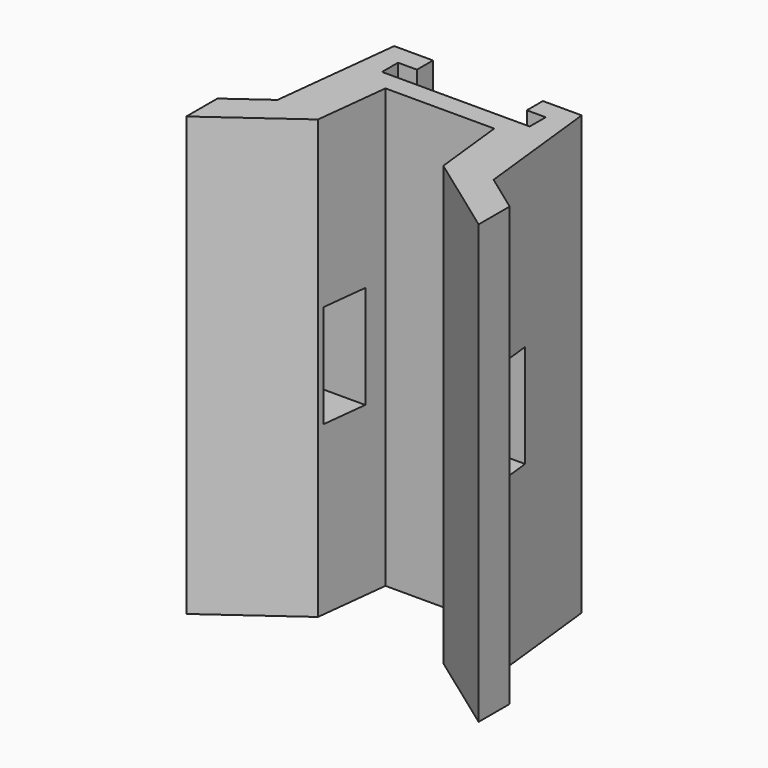
from build123d import *

# Parameters (mm, degrees)
F1_DEPTH = 76.5
F3_DEPTH = 66
F5_W     = 8
F5_H     = 18
F6_DEPTH = 44.4045879922


with BuildPart() as f1:
    # F0 (on Top) → F1 (new body)
    with BuildSketch(Plane.XY):
        Polygon((18.8770888389, -22.3604461369), (16.375, 0), (0, 0), (-16.375, 0), (-18.8770888389, -22.3604461369), (-25.5264991533, -27.1589190681), (-25.5264991533, -33.9414753953), (-10.9456513292, -23.4193688791), (-9.5, -10.5), (0, -10.5), (9.5, -10.5), (10.9456513292, -23.4193688791), (25.5264991533, -33.9414753953), (25.5264991533, -27.1589190681), align=None)
    extrude(amount=F1_DEPTH)

    # F2 (on face) → F3 (cut)
    with BuildSketch(Plane.XY.offset(76.5)):
        Polygon((9.6, 0), (-9.6, 0), (-9.6, -3.5), (-12.9, -3.5), (-12.9, -7), (12.9, -7), (12.9, -3.5), (9.6, -3.5), align=None)
    extrude(amount=-F3_DEPTH, mode=Mode.SUBTRACT)

    # F5 (on plane+point) → F6 (cut, through all)
    with BuildSketch(Plane.YZ.offset(18.8770888389)):
        with Locations((-18.3604461369, 38.25)):
            Rectangle(F5_W, F5_H)
    extrude(amount=-F6_DEPTH, mode=Mode.SUBTRACT)


solid = f1.part
